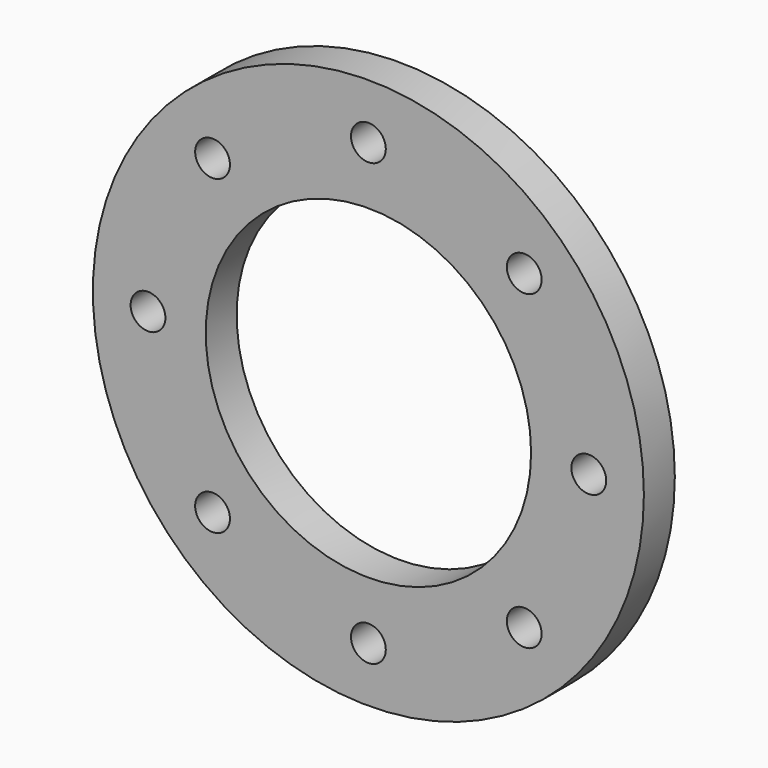
from build123d import *

# Parameters (mm, degrees)
F0_R     = 142.5
F0_R_2   = 9
F0_R_3   = 84.15
F1_DEPTH = 20


with BuildPart() as f1:
    # F0 (on Front) → F1 (new body)
    with BuildSketch(Plane.XZ):
        Circle(F0_R)
        with Locations((-80.610173, -80.610173)):
            Circle(F0_R_2, mode=Mode.SUBTRACT)
        with Locations((0, -114)):
            Circle(F0_R_2, mode=Mode.SUBTRACT)
        with Locations((80.610173, -80.610173)):
            Circle(F0_R_2, mode=Mode.SUBTRACT)
        with Locations((-114, 0)):
            Circle(F0_R_2, mode=Mode.SUBTRACT)
        with Locations((-80.610173, 80.610173)):
            Circle(F0_R_2, mode=Mode.SUBTRACT)
        Circle(F0_R_3, mode=Mode.SUBTRACT)
        with Locations((114, 0)):
            Circle(F0_R_2, mode=Mode.SUBTRACT)
        with Locations((0, 114)):
            Circle(F0_R_2, mode=Mode.SUBTRACT)
        with Locations((80.610173, 80.610173)):
            Circle(F0_R_2, mode=Mode.SUBTRACT)
    extrude(amount=F1_DEPTH)


solid = f1.part
